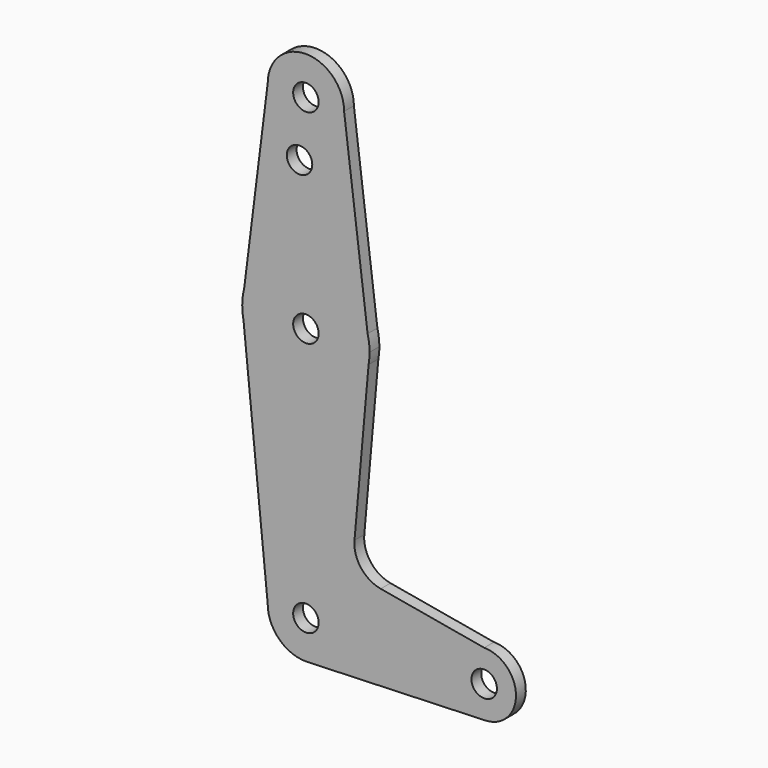
from build123d import *

# Parameters (mm, degrees)
F0_R     = 3.175
F1_DEPTH = 3.048


with BuildPart() as f1:
    # F0 (on Front) → F1 (new body)
    with BuildSketch(Plane.XZ):
        with BuildLine():
            ThreePointArc((0.6773435479, -9.500885786), (6.9705567315, -6.4912990883), (9.525, 0))
            ThreePointArc((9.525, 0), (0, 9.525), (-9.525, 0))
            ThreePointArc((-9.525, 0), (-6.7351920908, -6.7351920908), (0, -9.525))
            Line((0, -9.525), (0.6773435479, -9.500885786))
        make_face()
        Circle(F0_R, mode=Mode.SUBTRACT)
        with BuildLine():
            ThreePointArc((-9.525, 0), (0, 9.525), (9.525, 0))
            ThreePointArc((9.525, 0), (6.9705567315, -6.4912990883), (0.6773435479, -9.500885786))
            Line((0.6773435479, -9.500885786), (44.7324052746, -7.9324746146))
            ThreePointArc((44.7324052746, -7.9324746146), (36.5137564458, -0.1412249921), (44.45, 7.9375))
            Line((44.45, 7.9375), (18.6544621675, 12.4908351229))
            ThreePointArc((18.6544621675, 12.4908351229), (13.7263384996, 15.4838524031), (12.1171642333, 21.020558419))
            Line((12.1171642333, 21.020558419), (15.6284662769, 60.7131259747))
            ThreePointArc((15.6284662769, 60.7131259747), (0.1815405689, 47.626038049), (-15.5606435644, 60.3564356436))
            Line((-15.5606435644, 60.3564356436), (-9.525, 0))
        make_face()
        with BuildLine():
            ThreePointArc((0, -9.525), (0.3388863295, -9.5189695375), (0.6773435479, -9.500885786))
            Line((0.6773435479, -9.500885786), (0, -9.525))
        make_face()
        with BuildLine():
            Line((-15.875, 63.5), (-15.5606435644, 60.3564356436))
            ThreePointArc((-15.5606435644, 60.3564356436), (0.1815405689, 47.626038049), (15.6284662769, 60.7131259747))
            Line((15.6284662769, 60.7131259747), (15.875, 63.5))
            Line((15.875, 63.5), (15.3865384615, 67.4076923077))
            ThreePointArc((15.3865384615, 67.4076923077), (0, 79.375), (-15.3865384615, 67.4076923077))
            Line((-15.3865384615, 67.4076923077), (-15.875, 63.5))
        make_face()
        with Locations((0, 63.5)):
            Circle(F0_R, mode=Mode.SUBTRACT)
        with BuildLine():
            ThreePointArc((-15.875, 63.5), (-15.7962153946, 61.9203784605), (-15.5606435644, 60.3564356436))
            Line((-15.5606435644, 60.3564356436), (-15.875, 63.5))
        make_face()
        with BuildLine():
            ThreePointArc((44.45, 7.9375), (36.5137564458, -0.1412249921), (44.7324052746, -7.9324746146))
            ThreePointArc((44.7324052746, -7.9324746146), (50.1616327839, -5.5119104847), (52.3875, 0))
            ThreePointArc((52.3875, 0), (50.0626600757, 5.6126600757), (44.45, 7.9375))
        make_face()
        with Locations((44.45, 0)):
            Circle(F0_R, mode=Mode.SUBTRACT)
        with BuildLine():
            ThreePointArc((-15.3865384615, 67.4076923077), (-15.7524112928, 65.4690514116), (-15.875, 63.5))
            Line((-15.875, 63.5), (-15.3865384615, 67.4076923077))
        make_face()
        with BuildLine():
            Line((15.875, 63.5), (15.6284662769, 60.7131259747))
            ThreePointArc((15.6284662769, 60.7131259747), (15.813246459, 62.1011213679), (15.875, 63.5))
        make_face()
        with BuildLine():
            Line((-9.525, 114.3), (-15.3865384615, 67.4076923077))
            ThreePointArc((-15.3865384615, 67.4076923077), (0, 79.375), (15.3865384615, 67.4076923077))
            Line((15.3865384615, 67.4076923077), (9.525, 114.3))
            ThreePointArc((9.525, 114.3), (0, 104.775), (-9.525, 114.3))
        make_face()
        with Locations((-1.5875, 100.0252)):
            Circle(F0_R, mode=Mode.SUBTRACT)
        with BuildLine():
            Line((15.3865384615, 67.4076923077), (15.875, 63.5))
            ThreePointArc((15.875, 63.5), (15.7524112928, 65.4690514116), (15.3865384615, 67.4076923077))
        make_face()
        with BuildLine():
            ThreePointArc((9.525, 114.3), (0, 123.825), (-9.525, 114.3))
            ThreePointArc((-9.525, 114.3), (0, 104.775), (9.525, 114.3))
        make_face()
        with Locations((0, 114.3)):
            Circle(F0_R, mode=Mode.SUBTRACT)
    extrude(amount=F1_DEPTH)


solid = f1.part
